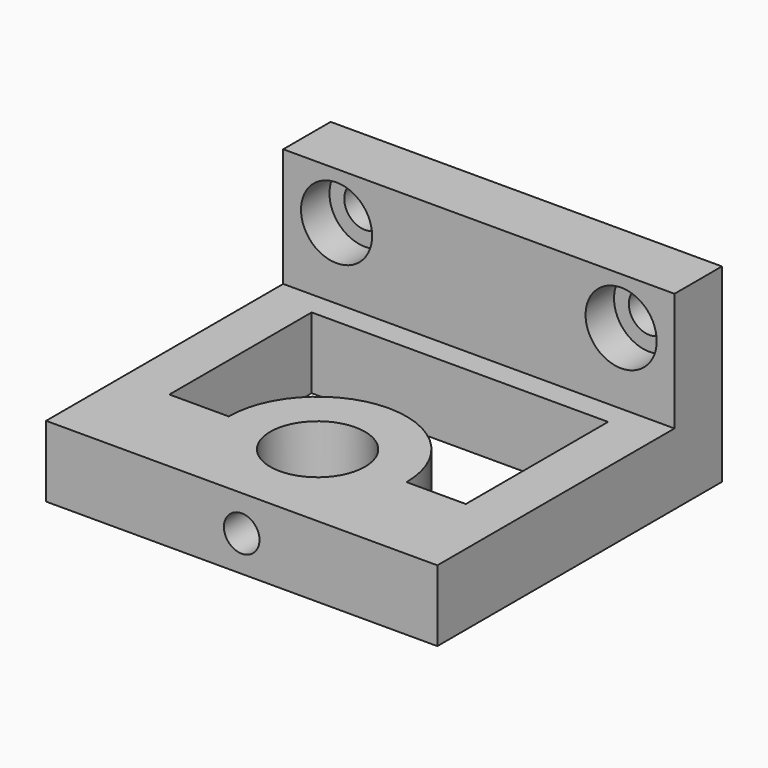
from build123d import *

# Parameters (mm, degrees)
F0_W      = 33
F0_H      = 10
F1_DEPTH  = 5
F2_R      = 1.75
F3_DEPTH  = 5
F2_R_2    = 3
F4_DEPTH  = 3
F5_W      = 33
F5_H      = 30
F6_DEPTH  = 6
F7_R      = 4
F8_DEPTH  = 6
F9_R      = 1.5
F10_DEPTH = 4.2929008565
F12_DEPTH = 6


with BuildPart() as f1:
    # F0 (on Front) → F1 (new body)
    with BuildSketch(Plane.XZ):
        Rectangle(F0_W, F0_H)
    extrude(amount=F1_DEPTH)

    # F2 (on face) → F3 (cut, through all)
    with BuildSketch(Plane.XZ.offset(5)):
        with Locations((-12, 1)):
            Circle(F2_R)
        with Locations((12, 1)):
            Circle(F2_R)
    extrude(amount=-F3_DEPTH, mode=Mode.SUBTRACT)

    # F2 (on face) → F4 (cut)
    with BuildSketch(Plane.XZ.offset(5)):
        with Locations((-12, 1)):
            Circle(F2_R_2)
        with Locations((-12, 1)):
            Circle(F2_R, mode=Mode.SUBTRACT)
        with Locations((12, 1)):
            Circle(F2_R_2)
        with Locations((12, 1)):
            Circle(F2_R, mode=Mode.SUBTRACT)
    extrude(amount=-F4_DEPTH, mode=Mode.SUBTRACT)

    # F5 (on face) → F6 (join)
    with BuildSketch(Plane(origin=(0, 0, -5), x_dir=(1, 0, 0), z_dir=(0, 0, -1))):
        with Locations((0, 15)):
            Rectangle(F5_W, F5_H)
    extrude(amount=F6_DEPTH)

    # F7 (on face) → F8 (cut, through all)
    with BuildSketch(Plane.XY.offset(-5)):
        with Locations((0, -22)):
            Circle(F7_R)
    extrude(amount=-F8_DEPTH, mode=Mode.SUBTRACT)

    # F9 (on face) → F10 (cut, through all)
    with BuildSketch(Plane.XZ.offset(30)):
        with Locations((0, -8)):
            Circle(F9_R)
    extrude(amount=-F10_DEPTH, mode=Mode.SUBTRACT)

    # F11 (on face) → F12 (cut, through all)
    with BuildSketch(Plane.XY.offset(-5)):
        with BuildLine():
            Line((12.5, -7), (-12.5, -7))
            Line((-12.5, -7), (-12.5, -14.6550831307))
            Line((-12.5, -14.6550831307), (-12.5, -22))
            Line((-12.5, -22), (-7.5, -22))
            ThreePointArc((-7.5, -22), (0, -14.5), (7.5, -22))
            Line((7.5, -22), (12.5, -22))
            Line((12.5, -22), (12.5, -14.6550831307))
            Line((12.5, -14.6550831307), (12.5, -7))
        make_face()
    extrude(amount=-F12_DEPTH, mode=Mode.SUBTRACT)


solid = f1.part
